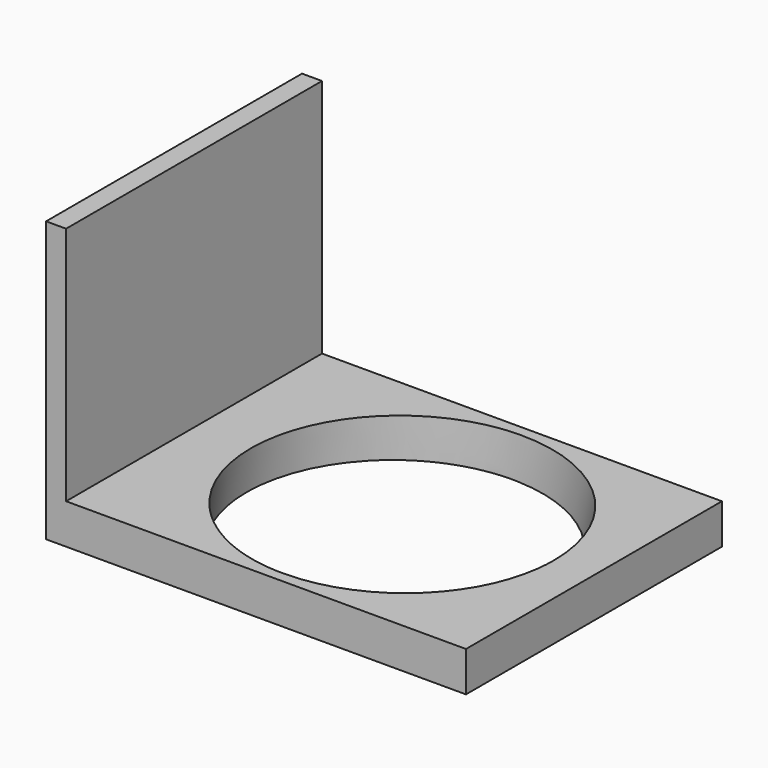
from build123d import *

# Parameters (mm, degrees)
F1_DEPTH = 50.8


with BuildPart() as f1:
    # F0 (on Front) → F1 (new body, symmetric)
    with BuildSketch(Plane.XZ):
        Polygon((6.35, 88.9), (0, 88.9), (0, 0), (133.35, 0), (133.35, 12.7), (6.35, 12.7), align=None)
    extrude(amount=F1_DEPTH, both=True)

    # F2 (on Front) → F3 (revolve, cut)
    with BuildSketch(Plane.XZ):
        Polygon((73.3769804781, 21.0355088013), (64.5556530526, -28.9927250518), (108.330357674, -36.711386549), (120.65, 12.7), align=None)
    revolve(axis=Axis((68.9663167654, 0, -3.9786081252), (0.1736481777, 0, 0.984807753)), mode=Mode.SUBTRACT)


solid = f1.part
